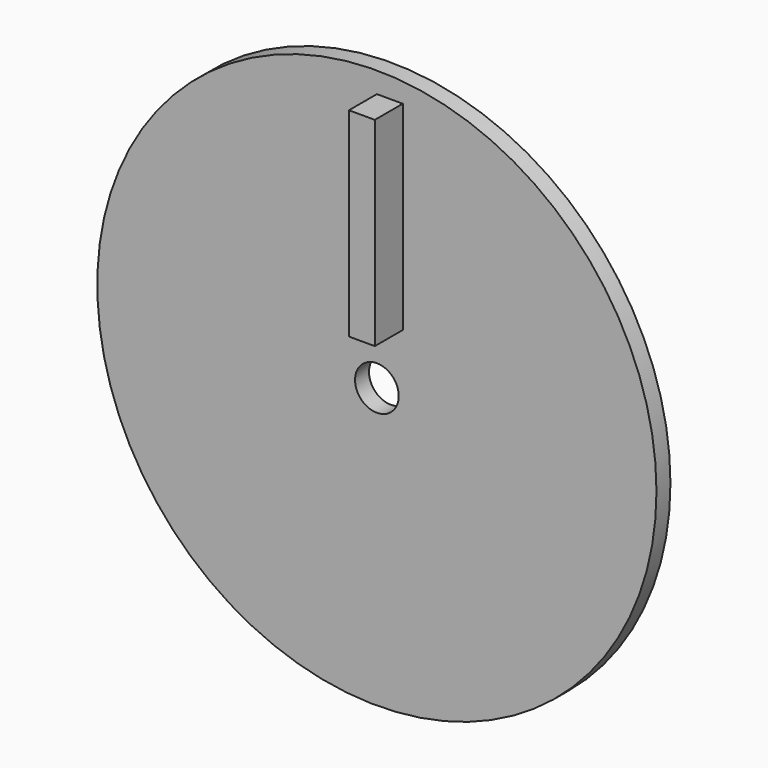
from build123d import *

# Parameters (mm, degrees)
F0_R     = 40.64
F0_W     = 3.766908
F0_H     = 28.957423
F1_DEPTH = 2.54
F2_DEPTH = 7.62


with BuildPart() as f1:
    # F0 (on Front) → F1 (new body)
    with BuildSketch(Plane.XZ):
        Circle(F0_R)
        with BuildLine():
            ThreePointArc((0, 3.175), (2.245064, 2.245064), (3.175, 0))
            ThreePointArc((3.175, 0), (-2.245064, -2.245064), (0, 3.175))
        make_face(mode=Mode.SUBTRACT)
        with Locations((1.883454, 23.124987)):
            Rectangle(F0_W, F0_H, mode=Mode.SUBTRACT)
    extrude(amount=F1_DEPTH)

    # F0 (on Front) → F2 (join)
    with BuildSketch(Plane.XZ):
        with Locations((1.883454, 23.124987)):
            Rectangle(F0_W, F0_H)
    extrude(amount=F2_DEPTH)


solid = f1.part
